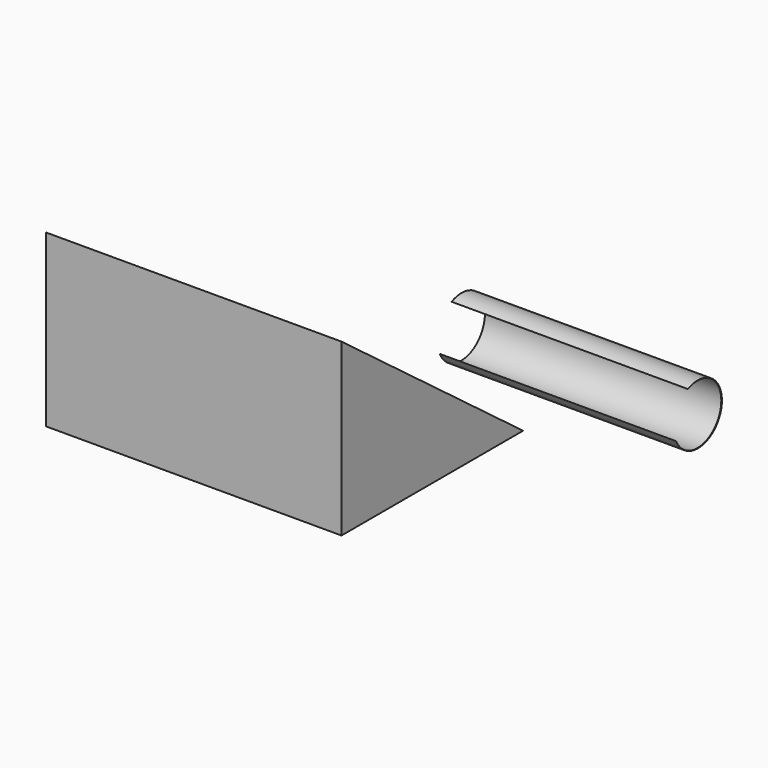
from build123d import *

# Parameters (mm, degrees)
F2_DEPTH = 127
F3_DEPTH = 127
F4_R     = 12.764484
F5_DEPTH = 127
F6_R     = 12.908332
F7_DEPTH = 101.6


with BuildPart() as f2:
    # F1 (on offset) → F2 (new body)
    with BuildSketch(Plane.YZ.offset(109.982)):
        Polygon((57.561152, -40.868416), (-40.004998, 32.522053), (-40.004998, -40.868416), align=None)
    extrude(amount=-F2_DEPTH)


with BuildPart() as f3:
    # F1 (on offset) → F3 (new body)
    with BuildSketch(Plane.YZ.offset(109.982)):
        Polygon((57.561152, 32.522053), (-40.004998, 32.522053), (57.561152, -40.868416), align=None)
    extrude(amount=F3_DEPTH)

    # F4 (on offset) → F5 (cut)
    with BuildSketch(Plane.YZ.offset(109.982)):
        with Locations((24.300953, 11.904083)):
            Circle(F4_R)
    extrude(amount=F5_DEPTH, mode=Mode.SUBTRACT)

    # F6 (on offset) → F7 (intersect)
    with BuildSketch(Plane.YZ.offset(109.982)):
        with Locations((24.493001, 11.832868)):
            Circle(F6_R)
    extrude(amount=F7_DEPTH, mode=Mode.INTERSECT)


solid = Compound([f2.part, f3.part])
